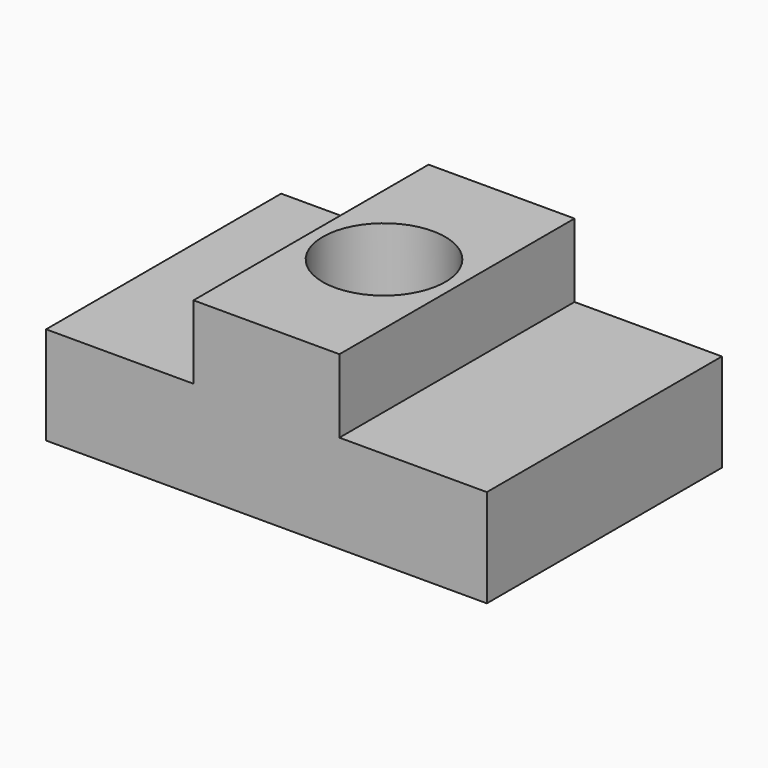
from build123d import *

# Parameters (mm, degrees)
F1_DEPTH = 38.1
F3_D     = 15.875


with BuildPart() as f1:
    # F0 (on Front) → F1 (new body)
    with BuildSketch(Plane.XZ):
        Polygon((0, -7.039699), (0, 0), (0, 15.185301), (-9.4615, 15.185301), (-9.4615, 5.660301), (-28.575, 5.660301), (-28.575, -7.039699), align=None)
        Polygon((0, 15.185301), (0, 0), (0, -7.039699), (28.575, -7.039699), (28.575, 5.660301), (9.4615, 5.660301), (9.4615, 15.185301), align=None)
    extrude(amount=F1_DEPTH)

    # F3 (through all)
    with Locations(Plane.XY.offset(15.185301)):
        with Locations((0, -19.05)):
            Hole(F3_D / 2)


solid = f1.part
